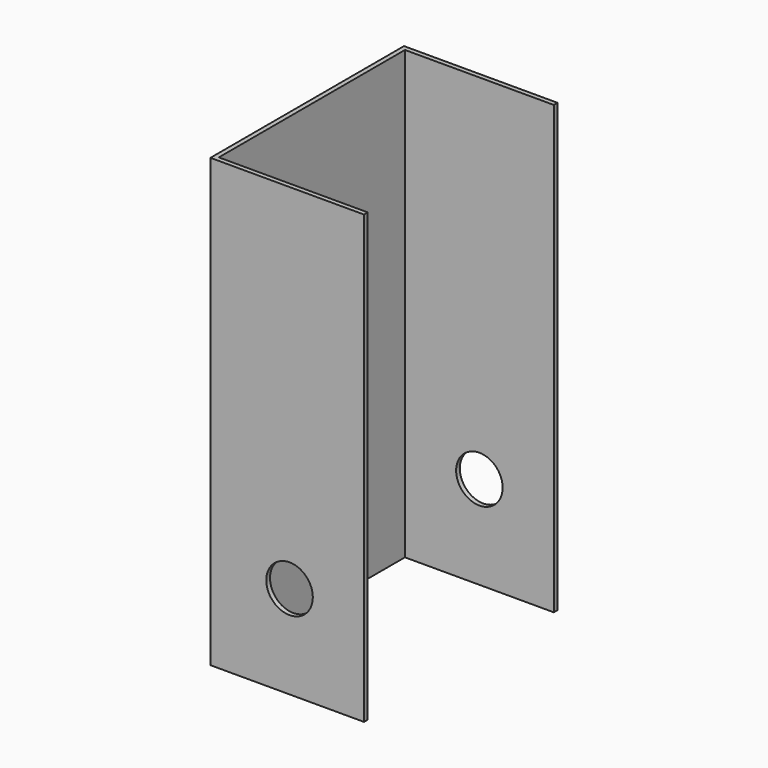
from build123d import *

# Parameters (mm, degrees)
F1_DEPTH = 152.4
F2_R     = 15.875
F3_DEPTH = 25.4
F4_R     = 7.9375
F5_DEPTH = 82.55


with BuildPart() as f1:
    # F0 (on Top) → F1 (new body)
    with BuildSketch(Plane.XY):
        Polygon((0, 79.375), (50.8, 79.375), (50.8, 80.9625), (-1.5875, 80.9625), (-1.5875, -1.5875), (50.8, -1.5875), (50.8, 0), (0, 0), align=None)
    extrude(amount=F1_DEPTH)

    # F2 (on face) → F3 (cut)
    with BuildSketch(Plane(origin=(-1.5875, 0, 0), x_dir=(0, -1, 0), z_dir=(-1, 0, 0))):
        with Locations((-39.6875, 76.2)):
            Circle(F2_R)
    extrude(amount=-F3_DEPTH, mode=Mode.SUBTRACT)

    # F4 (on face) → F5 (cut, through all)
    with BuildSketch(Plane.XZ.offset(1.5875)):
        with Locations((25.4, 31.75)):
            Circle(F4_R)
    extrude(amount=-F5_DEPTH, mode=Mode.SUBTRACT)


solid = f1.part
